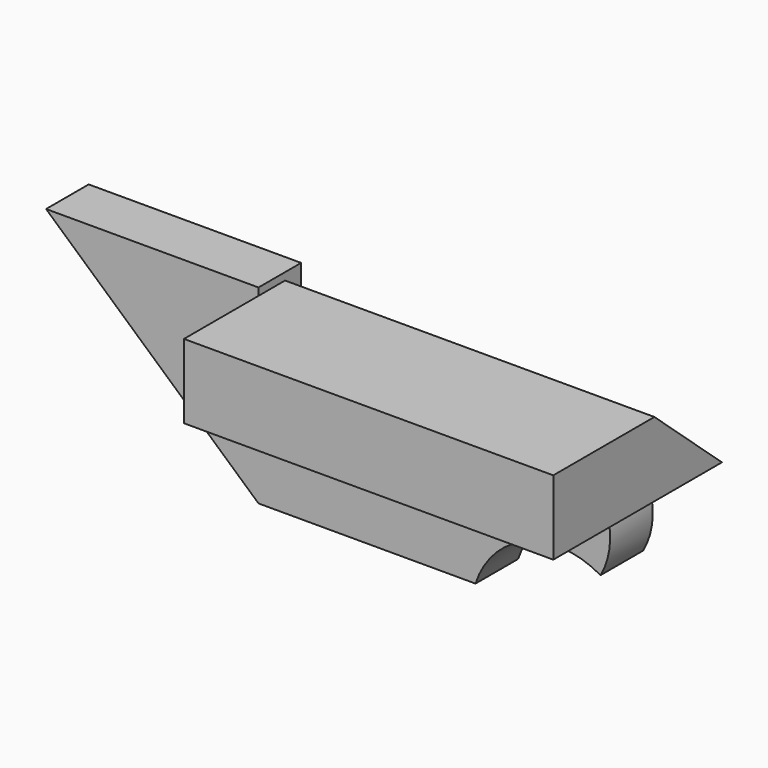
from build123d import *

# Parameters (mm, degrees)
F1_DEPTH = 38.1
F3_DEPTH = 264.16


with BuildPart() as f1:
    # F0 (on Front) → F1 (new body)
    with BuildSketch(Plane.XZ):
        with BuildLine():
            Line((0, 101.651832), (-151.931614, 101.651832))
            Line((-151.931614, 101.651832), (0, -34.334853))
            Line((0, -34.334853), (155.22711, -34.334853))
            ThreePointArc((155.22711, -34.334853), (191.708041, 4.217474), (244.616956, 0))
            ThreePointArc((244.616956, 0), (199.922033, 77.341867), (155.22711, 0))
            Line((155.22711, 0), (0, 0))
            Line((0, 0), (0, 101.651832))
        make_face()
    extrude(amount=F1_DEPTH)

    # F2 (on Right) → F3 (join)
    with BuildSketch(Plane.YZ):
        Polygon((-14.352266, 96.364982), (-104.755044, 96.364982), (-104.755044, 43.245103), (46.02623, 43.245103), align=None)
    extrude(amount=F3_DEPTH)


solid = f1.part
